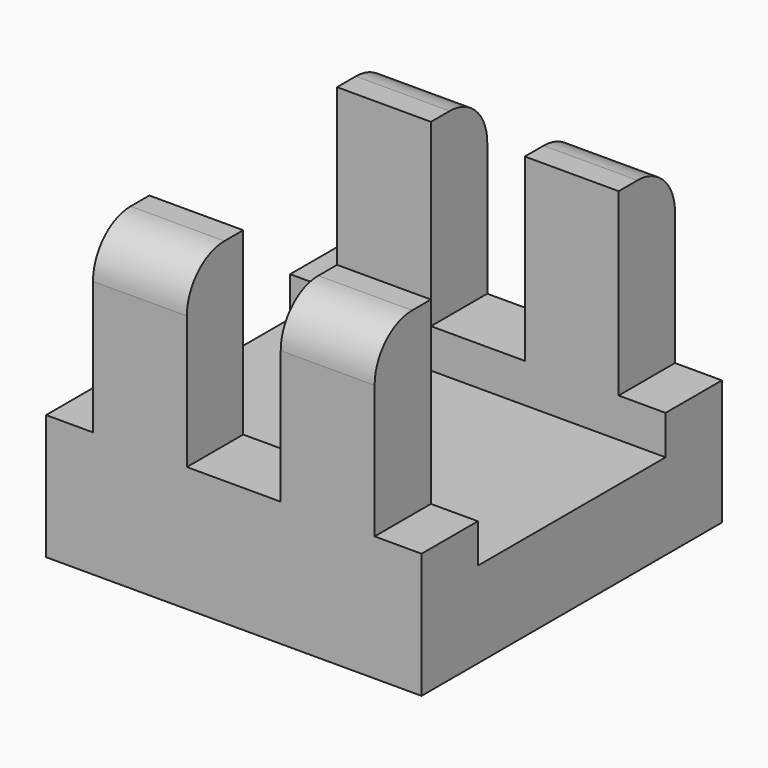
from build123d import *

# Parameters (mm, degrees)
F1_DEPTH = 24
F3_R     = 3
F2_W     = 15
F2_H     = 14
F4_DEPTH = 12.5
F7_DEPTH = 4


with BuildPart() as f1:
    # F0 (on Front) → F1 (new body)
    with BuildSketch(Plane.XZ):
        Polygon((3, -11.5), (0, -11.5), (-3, -11.5), (-3, 0), (-9, 0), (-9, -11.5), (-12, -11.5), (-12, -19.5), (-7, -19.5), (7, -19.5), (12, -19.5), (12, -11.5), (9, -11.5), (9, 0), (3, 0), align=None)
    extrude(amount=F1_DEPTH)

    # F3
    f3_edges = [f1.edges().sort_by_distance(p)[0] for p in [
        (-6, -24, 0),
        (6, -24, 0),
        (6, 0, 0),
        (-6, 0, 0),
    ]]
    fillet(f3_edges, radius=F3_R)

    # F2 (on Right) → F4 (cut, symmetric)
    with BuildSketch(Plane.YZ):
        with Locations((-12, -7)):
            Rectangle(F2_W, F2_H)
    extrude(amount=F4_DEPTH, both=True, mode=Mode.SUBTRACT)

    # F6 (on offset) → F7 (cut)
    with BuildSketch(Plane.XY.offset(-19.5)):
        with BuildLine():
            Line((-4, -18), (0, -18))
            Line((0, -18), (4, -18))
            ThreePointArc((4, -18), (6.1213203436, -17.1213203436), (7, -15))
            Line((7, -15), (7, -9))
            ThreePointArc((7, -9), (6.1213203436, -6.8786796564), (4, -6))
            Line((4, -6), (0, -6))
            Line((0, -6), (-4, -6))
            ThreePointArc((-4, -6), (-6.1213203436, -6.8786796564), (-7, -9))
            Line((-7, -9), (-7, -15))
            ThreePointArc((-7, -15), (-6.1213203436, -17.1213203436), (-4, -18))
        make_face()
    extrude(amount=F7_DEPTH, mode=Mode.SUBTRACT)


solid = f1.part
